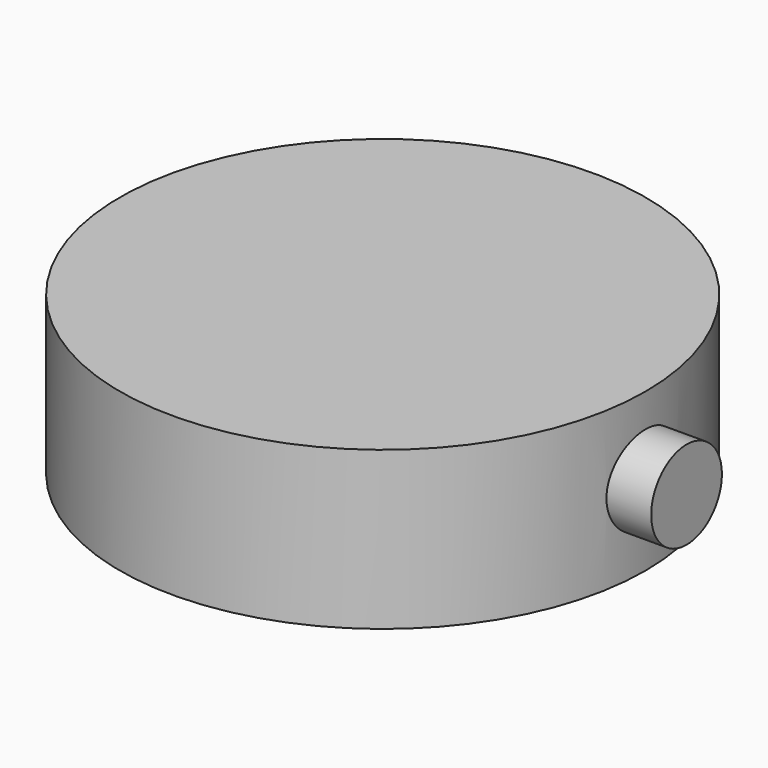
from build123d import *

# Parameters (mm, degrees)
F0_W     = 6.35
F0_H     = 3.81
F2_R     = 1.067563
F3_DEPTH = 7.3406


with BuildPart() as f1:
    # F0 (on Front) → F1 (revolve)
    with BuildSketch(Plane.XZ):
        with Locations((3.175, 1.905)):
            Rectangle(F0_W, F0_H)
    revolve(axis=Axis((0, 0, 1.905), (0, 0, 1)))

    # F2 (on Right) → F3 (join)
    with BuildSketch(Plane.YZ):
        with Locations((0, 1.939315)):
            Circle(F2_R)
    extrude(amount=F3_DEPTH)


solid = f1.part
